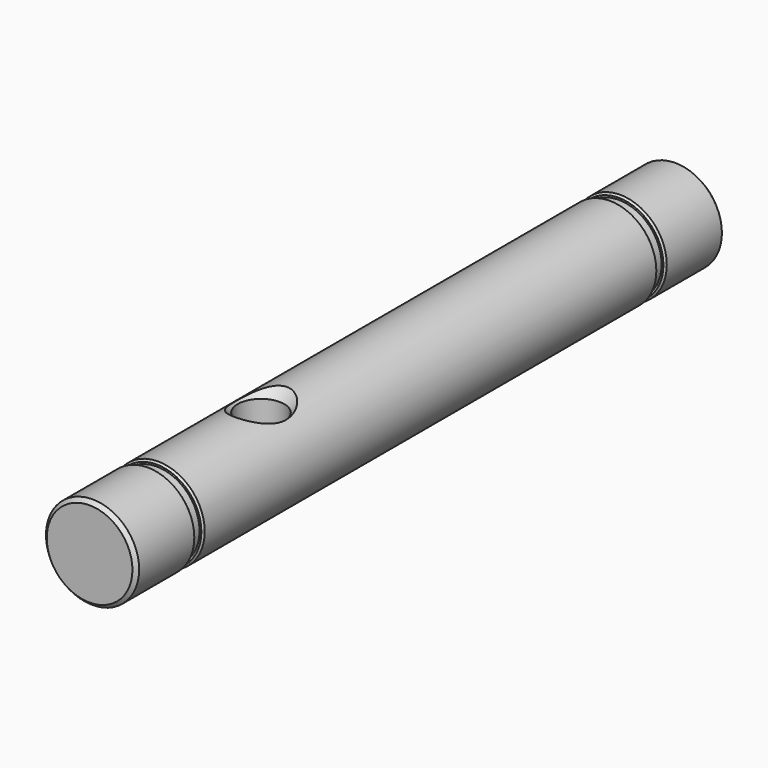
from build123d import *

# Parameters (mm, degrees)
F0_R           = 2.5
F0_R_2         = 2.3
F1_DEPTH       = 39.5
F4_D           = 2.5
F4_CSINK_D     = 4.5
F4_CSINK_ANGLE = 90
F5_START       = 4
F5_DEPTH       = 0.5
F7_START       = -4
F6_R           = 2.5
F6_R_2         = 2.3
F7_DEPTH       = 0.5
F8_SIZE        = 0.2
F9_SIZE        = 0.1


with BuildPart() as f1:
    # F0 (on Front) → F1 (new body)
    with BuildSketch(Plane.XZ):
        Circle(F0_R)
        Circle(F0_R_2, mode=Mode.SUBTRACT)
        Circle(F0_R_2)
    extrude(amount=F1_DEPTH)

    # F4 (through all)
    with Locations(Plane.XY.offset(3)):
        with Locations((0, -28)):
            CounterSinkHole(F4_D / 2, F4_CSINK_D / 2, counter_sink_angle=F4_CSINK_ANGLE)

    # F0 (on Front) → F5 (cut)
    with BuildSketch(Plane.XZ.offset(F5_START)):
        Circle(F0_R)
        Circle(F0_R_2, mode=Mode.SUBTRACT)
    extrude(amount=F5_DEPTH, mode=Mode.SUBTRACT)

    # F6 (on face) → F7 (cut)
    with BuildSketch(Plane.XZ.offset(39.5).offset(F7_START)):
        Circle(F6_R)
        Circle(F6_R_2, mode=Mode.SUBTRACT)
    extrude(amount=-F7_DEPTH, mode=Mode.SUBTRACT)

    # F8
    f8_edges = [f1.edges().sort_by_distance(p)[0] for p in [
        (-2.5, -39.5, 0),
        (-2.5, 0, 0),
    ]]
    chamfer(f8_edges, length=F8_SIZE)

    # F9
    f9_edges = [f1.edges().sort_by_distance(p)[0] for p in [
        (-2.5, -4, 0),
        (-2.5, -4.5, 0),
        (-2.5, -35, 0),
        (-2.5, -35.5, 0),
    ]]
    chamfer(f9_edges, length=F9_SIZE)


solid = f1.part
